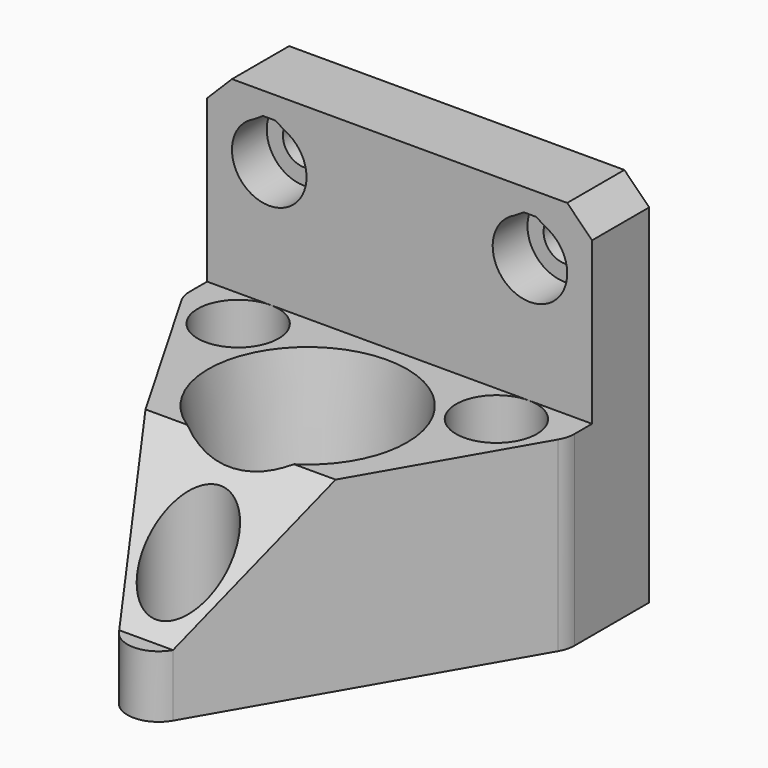
from build123d import *

# Parameters (mm, degrees)
SKETCH017_R           = 1.8
SKETCH017_R_2         = 6
PAD003_DEPTH          = 30
SKETCH018_R           = 3.25
POCKET009_DEPTH       = 27.6
POLARPATTERN004_COUNT = 3
POCKET010_DEPTH       = 30.981762
SKETCH020_W           = 30.980762
SKETCH020_H           = 25.5
POCKET011_DEPTH       = 15
SKETCH021_R           = 1.7
POCKET012_DEPTH       = 140.502067
SKETCH022_R           = 3
POCKET013_DEPTH       = 3.5
CHAMFER_SIZE          = 2
POCKET014_DEPTH       = 140.502067
POCKET015_DEPTH       = 3.5
SKETCH025_R           = 6
SKETCH026_R           = 8


with BuildPart() as part:
    # Sketch017 → Pad003 (new body)
    with BuildSketch(Plane.XY):
        with BuildLine():
            Line((-2.165064, -16.25), (-15.155445, 6.25))
            ThreePointArc((-15.490381, 7.5), (-15.405196, 6.852952), (-15.155445, 6.25))
            Line((-15.490381, 15), (-15.490381, 7.5))
            Line((15.490381, 15), (-15.490381, 15))
            Line((15.490381, 15), (15.490381, 7.5))
            ThreePointArc((15.155445, 6.25), (15.405196, 6.852952), (15.490381, 7.5))
            Line((2.165064, -16.25), (15.155445, 6.25))
            ThreePointArc((-2.165064, -16.25), (0, -17.5), (2.165064, -16.25))
        make_face()
        with Locations((-10.392305, 6)):
            Circle(SKETCH017_R, mode=Mode.SUBTRACT)
        with Locations((10.392305, 6)):
            Circle(SKETCH017_R, mode=Mode.SUBTRACT)
        with Locations((0, -12)):
            Circle(SKETCH017_R, mode=Mode.SUBTRACT)
        Circle(SKETCH017_R_2, mode=Mode.SUBTRACT)
    extrude(amount=PAD003_DEPTH)

    # Sketch018 (on Face14 of Pad003) → Pocket009 (cut)
    with BuildSketch(Plane.XY.offset(30)):
        with Locations((0, -12)):
            Circle(SKETCH018_R)
    pocket009 = extrude(amount=-POCKET009_DEPTH, mode=Mode.SUBTRACT)

    # PolarPattern004: Pocket009 ×3 about axis
    polarpattern004_axis = Axis((0, 0, 30), (0, 0, 1))
    for i in range(1, POLARPATTERN004_COUNT):
        add(pocket009.rotate(polarpattern004_axis, i * 360 / POLARPATTERN004_COUNT), mode=Mode.SUBTRACT)

    # Sketch019 (on DatumPlane) → Pocket010 (cut, through all)
    with BuildSketch(Plane.YZ.offset(15.490381)):
        Polygon((7.5, 30), (-16.25, 5), (-18.75, 5), (-18.75, 30), align=None)
    extrude(amount=-POCKET010_DEPTH, mode=Mode.SUBTRACT)

    # Sketch020 (on Face16 of Pocket010) → Pocket011 (cut)
    with BuildSketch(Plane.XY.offset(30)):
        with Locations((0, -3.5)):
            Rectangle(SKETCH020_W, SKETCH020_H)
    extrude(amount=-POCKET011_DEPTH, mode=Mode.SUBTRACT)

    # Sketch021 (on Face8 of Pocket011) → Pocket012 (cut, through all)
    with BuildSketch(Plane(origin=(0, 15, 0), x_dir=(-1, 0, 0), z_dir=(0, 1, 0))):
        with Locations((10.490381, 25)):
            Circle(SKETCH021_R)
    pocket012 = extrude(amount=-POCKET012_DEPTH, mode=Mode.SUBTRACT)

    # Mirrored: Pocket012 across Sketch021 V_Axis
    add(pocket012.mirror(Plane(origin=(0, 15, 0), x_dir=(0, 1, 0), z_dir=(-1, 0, 0))), mode=Mode.SUBTRACT)

    # Sketch022 (on Face17 of Mirrored) → Pocket013 (cut)
    with BuildSketch(Plane.XZ.offset(-9.25)):
        with Locations((-10.490381, 25)):
            Circle(SKETCH022_R)
    pocket013 = extrude(amount=-POCKET013_DEPTH, mode=Mode.SUBTRACT)

    # Mirrored001: Pocket013 across Sketch022 V_Axis
    add(pocket013.mirror(Plane(origin=(0, 9.25, 0), x_dir=(0, -1, 0), z_dir=(1, 0, 0))), mode=Mode.SUBTRACT)

    # Chamfer
    chamfer_edges = [part.edges().sort_by_distance(p)[0] for p in [
        (-15.490381, 12.125, 30),
        (15.490381, 12.125, 30),
    ]]
    chamfer(chamfer_edges, length=CHAMFER_SIZE)

    # Sketch023 (on Face5 of Chamfer) → Pocket014 (cut, through all)
    with BuildSketch(Plane(origin=(0, 15, 0), x_dir=(-1, 0, 0), z_dir=(0, 1, 0))):
        Polygon((9.740381, 26.525615), (10.240381, 26.8), (10.740381, 26.8), (11.240381, 26.525615), align=None)
    pocket014 = extrude(amount=-POCKET014_DEPTH, mode=Mode.SUBTRACT)

    # Mirrored002: Pocket014 across Sketch023 V_Axis
    add(pocket014.mirror(Plane(origin=(0, 15, 0), x_dir=(0, 1, 0), z_dir=(-1, 0, 0))), mode=Mode.SUBTRACT)

    # Sketch024 (on Face2 of Mirrored002) → Pocket015 (cut)
    with BuildSketch(Plane.XZ.offset(-9.25)):
        Polygon((-11.740381, 27.727178), (-10.990381, 28.2), (-9.990381, 28.2), (-9.240381, 27.727178), align=None)
    pocket015 = extrude(amount=-POCKET015_DEPTH, mode=Mode.SUBTRACT)

    # Mirrored003: Pocket015 across Sketch024 V_Axis
    add(pocket015.mirror(Plane(origin=(0, 9.25, 0), x_dir=(0, -1, 0), z_dir=(1, 0, 0))), mode=Mode.SUBTRACT)

    # Sketch025 (on Face7 of Mirrored003) → SubtractiveLoft section 0
    with BuildSketch(Plane(origin=(0, 0, 0), x_dir=(1, 0, 0), z_dir=(0, 0, -1))):
        Circle(SKETCH025_R)
    # Sketch026 (on Face4 of Mirrored003) → SubtractiveLoft section 1
    with BuildSketch(Plane.XY.offset(15)):
        Circle(SKETCH026_R)
    loft(mode=Mode.SUBTRACT)


with BuildPart() as part_1:
    # Body004 placement: moved
    add(part.part.moved(Location((0, 0, 26))))


solid = part_1.part
